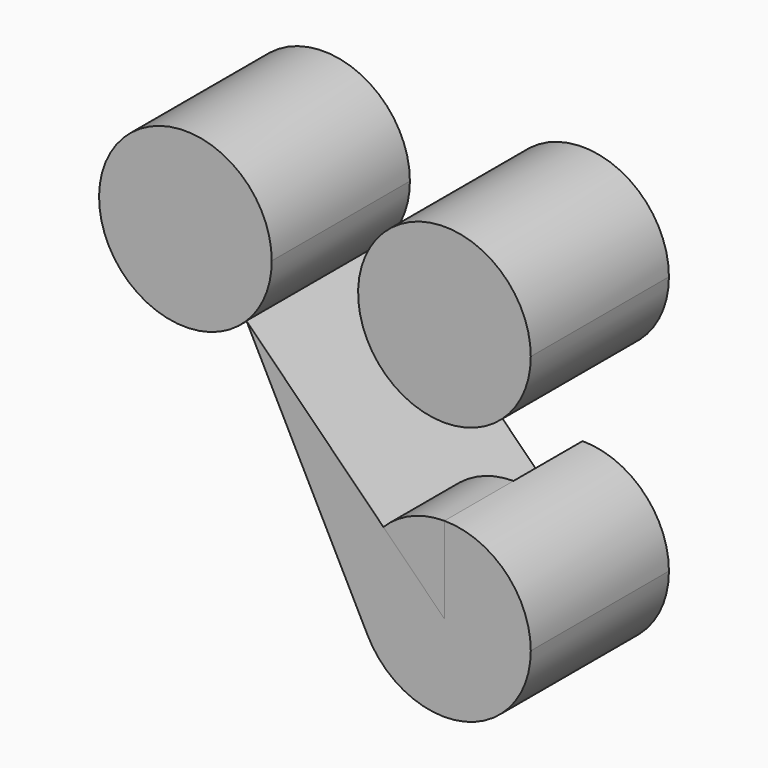
from build123d import *

# Parameters (mm, degrees)
F1_DEPTH = 25.4
F2_DEPTH = 25.4


with BuildPart() as f1:
    # F0 (on Front) → F1 (new body)
    with BuildSketch(Plane.XZ):
        with BuildLine():
            ThreePointArc((-17.960512, 17.960512), (-25.088591, 3.965175), (-22.623967, -11.54626))
            ThreePointArc((-22.623967, -11.54626), (5.937644, -24.696242), (25.4, 0))
            ThreePointArc((25.4, 0), (17.960512, 17.960512), (0, 25.4))
            Line((0, 25.4), (0, 0))
            Line((0, 0), (-17.960512, 17.960512))
        make_face()
        with BuildLine():
            Line((-58.239488, 58.239488), (-22.623967, -11.54626))
            ThreePointArc((-22.623967, -11.54626), (-25.088591, 3.965175), (-17.960512, 17.960512))
            Line((-17.960512, 17.960512), (-58.239488, 58.239488))
        make_face()
        with BuildLine():
            ThreePointArc((-50.8, 76.2), (-99.66654, 85.920159), (-58.239488, 58.239488))
            ThreePointArc((-58.239488, 58.239488), (-52.73346, 66.479841), (-50.8, 76.2))
        make_face()
        with BuildLine():
            ThreePointArc((25.4, 76.2), (-17.960512, 94.160512), (0, 50.8))
            ThreePointArc((0, 50.8), (17.960512, 58.239488), (25.4, 76.2))
        make_face()
        with BuildLine():
            ThreePointArc((0, 25.4), (-9.720159, 23.46654), (-17.960512, 17.960512))
            Line((-17.960512, 17.960512), (0, 0))
            Line((0, 0), (0, 25.4))
        make_face()
    extrude(amount=F1_DEPTH)


with BuildPart() as f2:
    # F0 (on Front) → F2 (new body, symmetric)
    with BuildSketch(Plane.XZ):
        with BuildLine():
            ThreePointArc((-50.8, 76.2), (-99.66654, 85.920159), (-58.239488, 58.239488))
            ThreePointArc((-58.239488, 58.239488), (-52.73346, 66.479841), (-50.8, 76.2))
        make_face()
        with BuildLine():
            Line((-58.239488, 58.239488), (-22.623967, -11.54626))
            ThreePointArc((-22.623967, -11.54626), (-25.088591, 3.965175), (-17.960512, 17.960512))
            Line((-17.960512, 17.960512), (-58.239488, 58.239488))
        make_face()
        with BuildLine():
            ThreePointArc((-17.960512, 17.960512), (-25.088591, 3.965175), (-22.623967, -11.54626))
            ThreePointArc((-22.623967, -11.54626), (5.937644, -24.696242), (25.4, 0))
            ThreePointArc((25.4, 0), (17.960512, 17.960512), (0, 25.4))
            Line((0, 25.4), (0, 0))
            Line((0, 0), (-17.960512, 17.960512))
        make_face()
        with BuildLine():
            ThreePointArc((25.4, 76.2), (-17.960512, 94.160512), (0, 50.8))
            ThreePointArc((0, 50.8), (17.960512, 58.239488), (25.4, 76.2))
        make_face()
    extrude(amount=F2_DEPTH, both=True)


solid = Compound([f1.part, f2.part])
